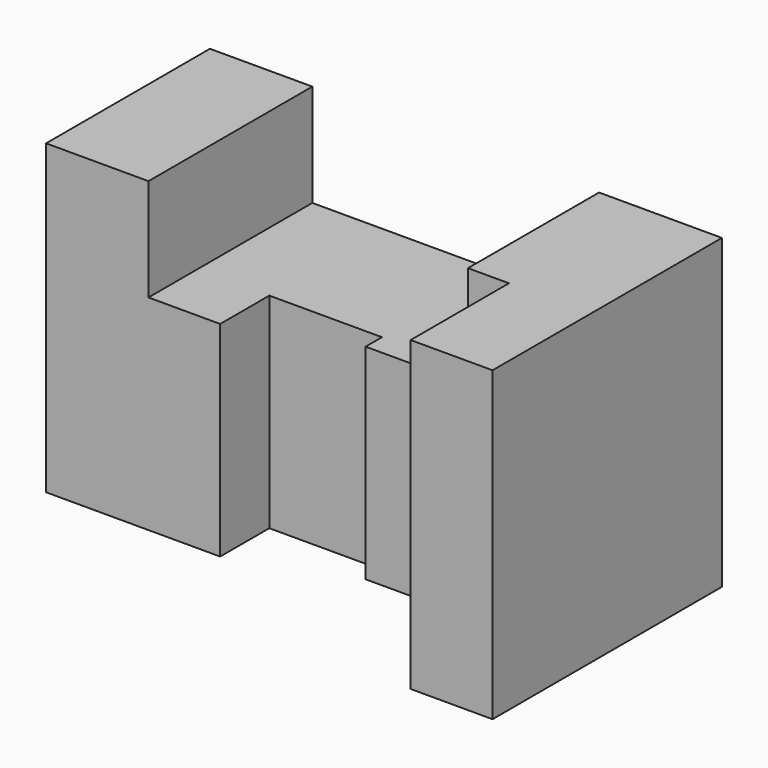
from build123d import *

# Parameters (mm, degrees)
F1_DEPTH = 50
F0_W     = 25
F0_H     = 50
F2_DEPTH = 75
F3_DEPTH = 75


with BuildPart() as f1:
    # F0 (on Top) → F1 (new body)
    with BuildSketch(Plane.XY):
        Polygon((95, 0), (25, 0), (25, -50), (42.5, -50), (42.5, -35), (70, -35), (70, -40), (95, -40), align=None)
        Polygon((95, 0), (25, 0), (25, -50), (42.5, -50), (42.5, -35), (70, -35), (70, -40), (95, -40), align=None)
    extrude(amount=F1_DEPTH)

    # F0 (on Top) → F2 (join)
    with BuildSketch(Plane.XY):
        with Locations((12.5, -25)):
            Rectangle(F0_W, F0_H)
    extrude(amount=F2_DEPTH)

    # F0 (on Top) → F3 (join)
    with BuildSketch(Plane.XY):
        Polygon((125, 0), (95, 0), (95, -40), (105, -40), (105, -70), (125, -70), align=None)
    extrude(amount=F3_DEPTH)


solid = f1.part
